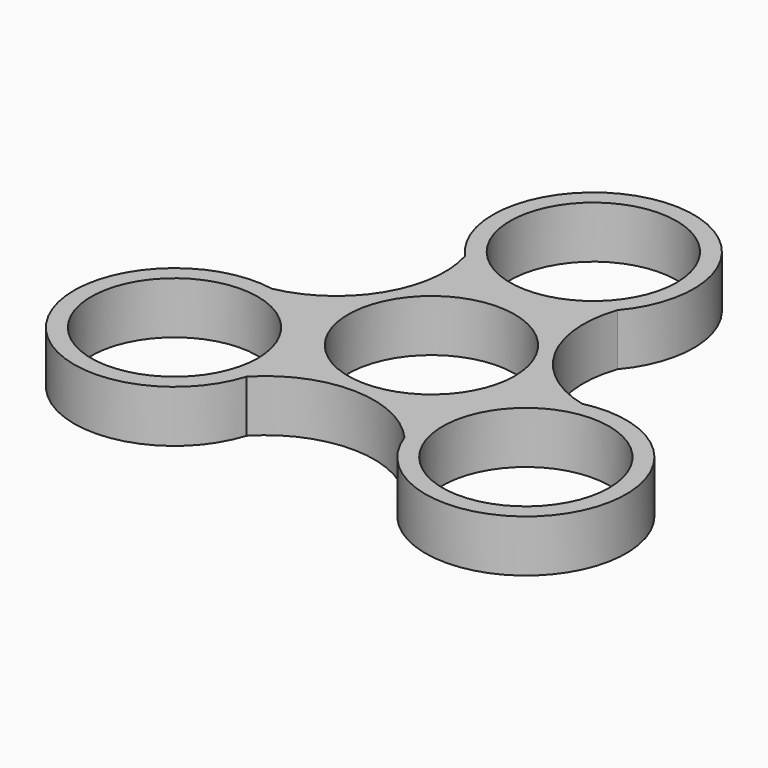
from build123d import *

# Parameters (mm, degrees)
F0_R     = 11.2
F1_DEPTH = 7


with BuildPart() as f1:
    # F0 (on Top) → F1 (new body)
    with BuildSketch(Plane.XY):
        with BuildLine():
            ThreePointArc((20.649142, -0.505374), (11.268043, 6.660297), (10.250514, 18.421101))
            ThreePointArc((10.250514, 18.421101), (-0.25463, 40.703741), (-9.911882, 18.040741))
            ThreePointArc((-9.911882, 18.040741), (-11.426986, 6.333635), (-21.103376, -0.427973))
            ThreePointArc((-21.103376, -0.427973), (-35.148137, -20.667014), (-10.692777, -17.69894))
            ThreePointArc((-10.692777, -17.69894), (0.203426, -13.157505), (10.897346, -18.156701))
            ThreePointArc((10.897346, -18.156701), (35.44725, -20.2003), (20.649142, -0.505374))
        make_face()
        with Locations((-23.586189, -13.697699)):
            Circle(F0_R, mode=Mode.SUBTRACT)
        Circle(F0_R, mode=Mode.SUBTRACT)
        with Locations((23.630672, -13.672017)):
            Circle(F0_R, mode=Mode.SUBTRACT)
        with Locations((0, 27.206143)):
            Circle(F0_R, mode=Mode.SUBTRACT)
    extrude(amount=F1_DEPTH)


solid = f1.part
